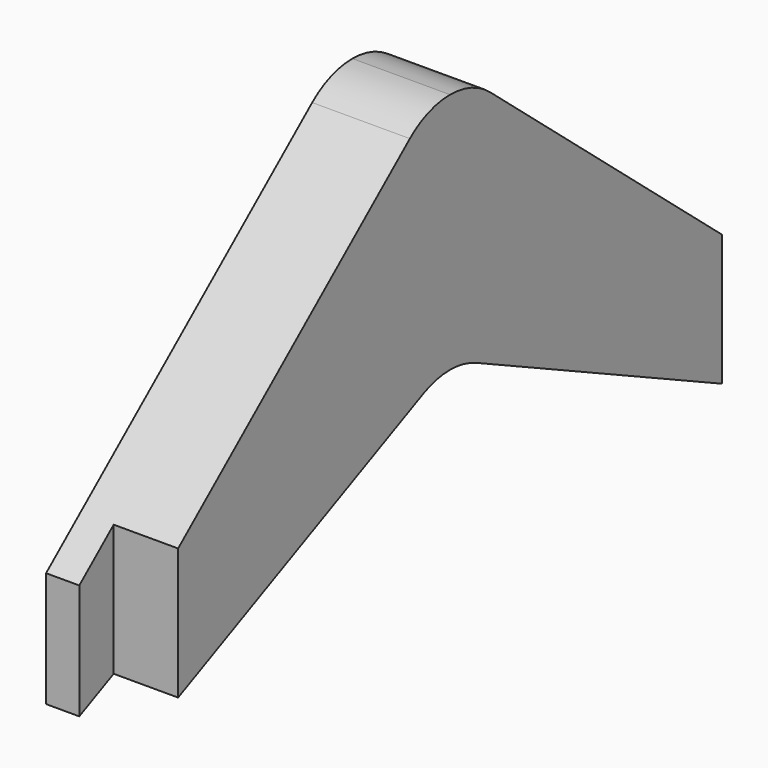
from build123d import *

# Parameters (mm, degrees)
F1_DEPTH = 6.35
F3_DEPTH = 4.191


with BuildPart() as f1:
    # F0 (on Right) → F1 (new body)
    with BuildSketch(Plane.YZ):
        with BuildLine():
            Line((24.892, -3.5873989895), (3.2653610572, 14.559505771))
            ThreePointArc((3.2653610572, 14.559505771), (1.7374623281, 15.4416385136), (0, 15.748))
            ThreePointArc((0, 15.748), (-1.7374623281, 15.4416385136), (-3.2653610572, 14.559505771))
            Line((-3.2653610572, 14.559505771), (-24.892, -3.5873989895))
            Line((-24.892, -3.5873989895), (-24.892, -11.0821703985))
            Line((-24.892, -11.0821703985), (-2.1469007696, -0.4759564419))
            ThreePointArc((-2.1469007696, -0.4759564419), (-1.0995132388, -0.1204162838), (0, 0))
            ThreePointArc((0, 0), (1.0995132388, -0.1204162838), (2.1469007696, -0.4759564419))
            Line((2.1469007696, -0.4759564419), (24.892, -11.0821703985))
            Line((24.892, -11.0821703985), (24.892, -3.5873989895))
        make_face()
    extrude(amount=F1_DEPTH)

    # F2 (on face) → F3 (cut)
    with BuildSketch(Plane.YZ.offset(6.35)):
        Polygon((22.098, -9.7793068016), (24.892, -11.0821703985), (24.892, -3.5873989895), (22.098, -1.2429546199), align=None)
        Polygon((-22.098, -9.7793068016), (-22.098, -1.2429546199), (-24.892, -3.5873989895), (-24.892, -11.0821703985), align=None)
    extrude(amount=-F3_DEPTH, mode=Mode.SUBTRACT)


solid = f1.part
